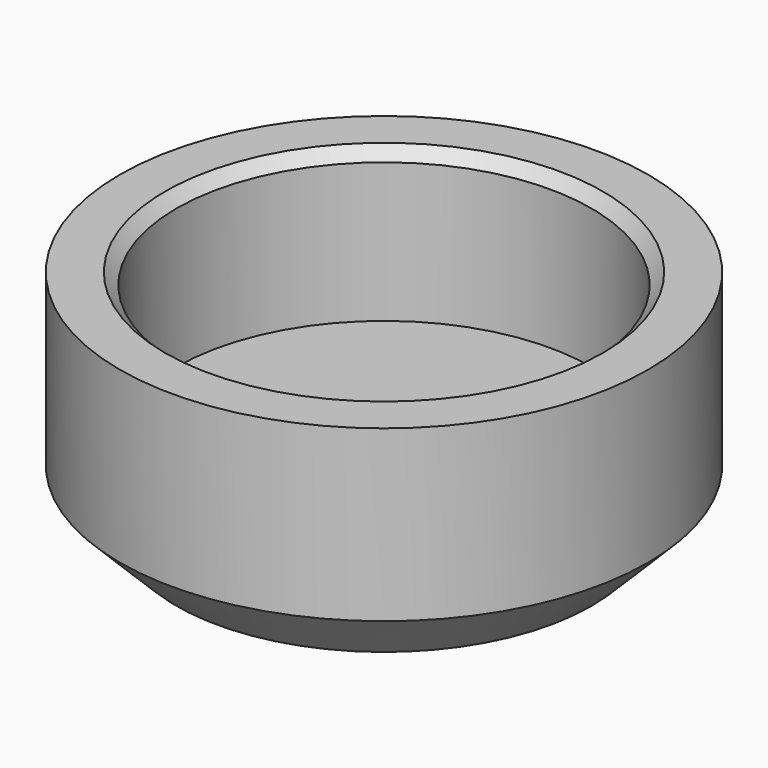
from build123d import *

# Parameters (mm, degrees)
F0_R     = 7
F0_R_2   = 5.5
F1_DEPTH = 4
F2_R     = 7
F3_DEPTH = 2
F4_SIZE  = 1.5
F5_SIZE  = 0.3


with BuildPart() as f1:
    # F0 (on Top) → F1 (new body)
    with BuildSketch(Plane.XY):
        Circle(F0_R)
        Circle(F0_R_2, mode=Mode.SUBTRACT)
    extrude(amount=F1_DEPTH)

    # F2 (on face) → F3 (join)
    with BuildSketch(Plane(origin=(0, 0, 0), x_dir=(1, 0, 0), z_dir=(0, 0, -1))):
        Circle(F2_R)
    extrude(amount=F3_DEPTH)

    # F4
    f4_edges = [f1.edges().sort_by_distance(p)[0] for p in [
        (-7, 0, -2),
    ]]
    chamfer(f4_edges, length=F4_SIZE)

    # F5
    f5_edges = [f1.edges().sort_by_distance(p)[0] for p in [
        (-5.5, 0, 4),
    ]]
    chamfer(f5_edges, length=F5_SIZE)


solid = f1.part
